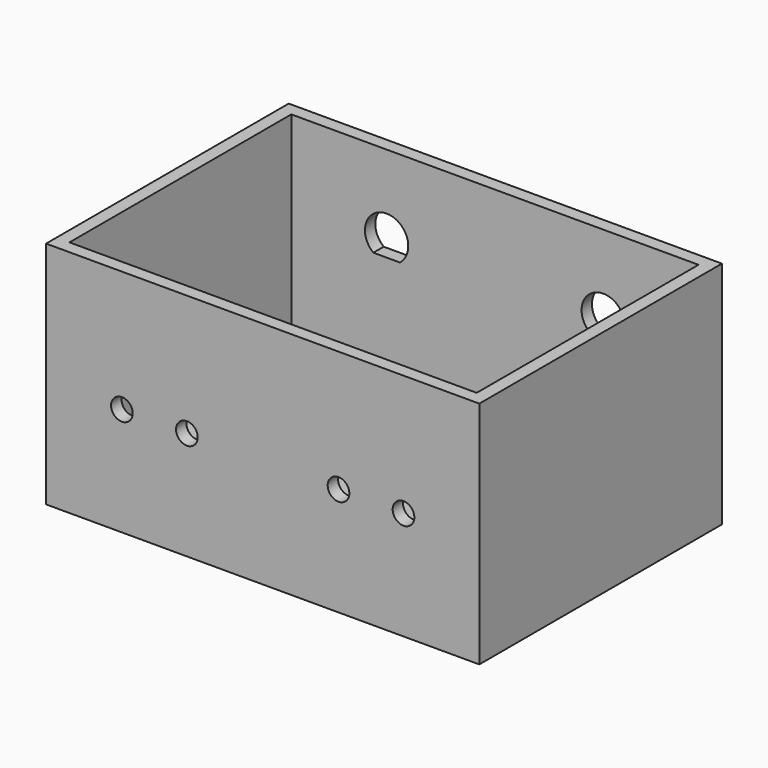
from build123d import *

# Parameters (mm, degrees)
SKETCH_W        = 100
SKETCH_H        = 70
PAD_DEPTH       = 3
SKETCH001_W     = 100
SKETCH001_H     = 3
PAD001_DEPTH    = 50
SKETCH002_W     = 3
SKETCH002_H     = 70
PAD002_DEPTH    = 50
POCKET_DEPTH    = 4
SKETCH004_R     = 2.5
POCKET001_DEPTH = 4
SKETCH005_W     = 12.7
SKETCH005_H     = 9
POCKET002_DEPTH = 4


with BuildPart() as part:
    # Sketch → Pad (new body)
    with BuildSketch(Plane.XY):
        with Locations((50, 35)):
            Rectangle(SKETCH_W, SKETCH_H)
    extrude(amount=PAD_DEPTH)

    # Sketch001 (on Face6 of Pad) → Pad001 (join)
    with BuildSketch(Plane.XY.offset(3)):
        with Locations((50, 68.5)):
            Rectangle(SKETCH001_W, SKETCH001_H)
        with Locations((50, 1.5)):
            Rectangle(SKETCH001_W, SKETCH001_H)
    extrude(amount=PAD001_DEPTH)

    # Sketch002 (on Face8 of Pad001) → Pad002 (join)
    with BuildSketch(Plane.XY.offset(3)):
        with Locations((1.5, 35)):
            Rectangle(SKETCH002_W, SKETCH002_H)
        with Locations((98.5, 35)):
            Rectangle(SKETCH002_W, SKETCH002_H)
    extrude(amount=PAD002_DEPTH)

    # Sketch003 (on Face6 of Pad002) → Pocket (cut)
    with BuildSketch(Plane(origin=(0, 70, 0), x_dir=(-1, 0, 0), z_dir=(0, 1, 0))):
        with BuildLine():
            ThreePointArc((-71.997929, 31.001554), (-75, 40), (-78.002071, 31.001554))
            Line((-78.002071, 31.001554), (-71.997929, 31.001554))
        make_face()
        with BuildLine():
            ThreePointArc((-21.937304, 31.047799), (-25, 40), (-28.062696, 31.047799))
            Line((-28.062696, 31.047799), (-21.937304, 31.047799))
        make_face()
    extrude(amount=-POCKET_DEPTH, mode=Mode.SUBTRACT)

    # Sketch004 (on Face23 of Pocket) → Pocket001 (cut)
    with BuildSketch(Plane.XZ):
        with Locations((17.5, 25)):
            Circle(SKETCH004_R)
        with Locations((32.5, 25)):
            Circle(SKETCH004_R)
        with Locations((67.5, 25)):
            Circle(SKETCH004_R)
        with Locations((82.5, 25)):
            Circle(SKETCH004_R)
    extrude(amount=-POCKET001_DEPTH, mode=Mode.SUBTRACT)

    # Sketch005 (on Face6 of Pocket001) → Pocket002 (cut)
    with BuildSketch(Plane(origin=(0, 70, 0), x_dir=(-1, 0, 0), z_dir=(0, 1, 0))):
        with Locations((-83.65, 12.5)):
            Rectangle(SKETCH005_W, SKETCH005_H)
    extrude(amount=-POCKET002_DEPTH, mode=Mode.SUBTRACT)


solid = part.part
